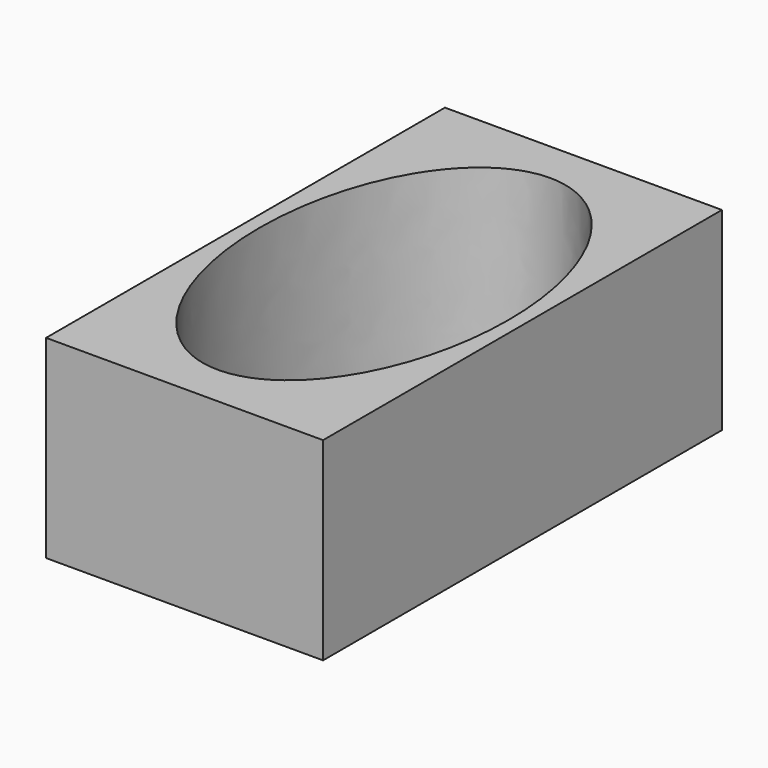
from build123d import *

# Parameters (mm, degrees)
F0_W     = 1016
F0_H     = 1828.8
F1_DEPTH = 711.2
F2_DEPTH = 25.4


with BuildPart() as f1:
    # F0 (on Top) → F1 (new body)
    with BuildSketch(Plane.XY):
        with Locations((508, 914.4)):
            Rectangle(F0_W, F0_H)
        with BuildLine():
            add(Edge.make_bspline(
                [(508, 1676.4), (-283.893629, 1676.4), (112.053185, 533.4), (508, -609.6), (903.946815, 533.4), (1299.893629, 1676.4), (508, 1676.4)],
                knots=[0, 0, 0, 2.094395, 2.094395, 4.18879, 4.18879, 6.283185, 6.283185, 6.283185], degree=2, weights=[1, 0.5, 1, 0.5, 1, 0.5, 1]))
        make_face(mode=Mode.SUBTRACT)
    extrude(amount=F1_DEPTH)

    # F0 (on Top) → F2 (join)
    with BuildSketch(Plane.XY):
        with BuildLine():
            add(Edge.make_bspline(
                [(508, 1676.4), (-283.893629, 1676.4), (112.053185, 533.4), (508, -609.6), (903.946815, 533.4), (1299.893629, 1676.4), (508, 1676.4)],
                knots=[0, 0, 0, 2.094395, 2.094395, 4.18879, 4.18879, 6.283185, 6.283185, 6.283185], degree=2, weights=[1, 0.5, 1, 0.5, 1, 0.5, 1]))
        make_face()
    extrude(amount=F2_DEPTH)


solid = f1.part
